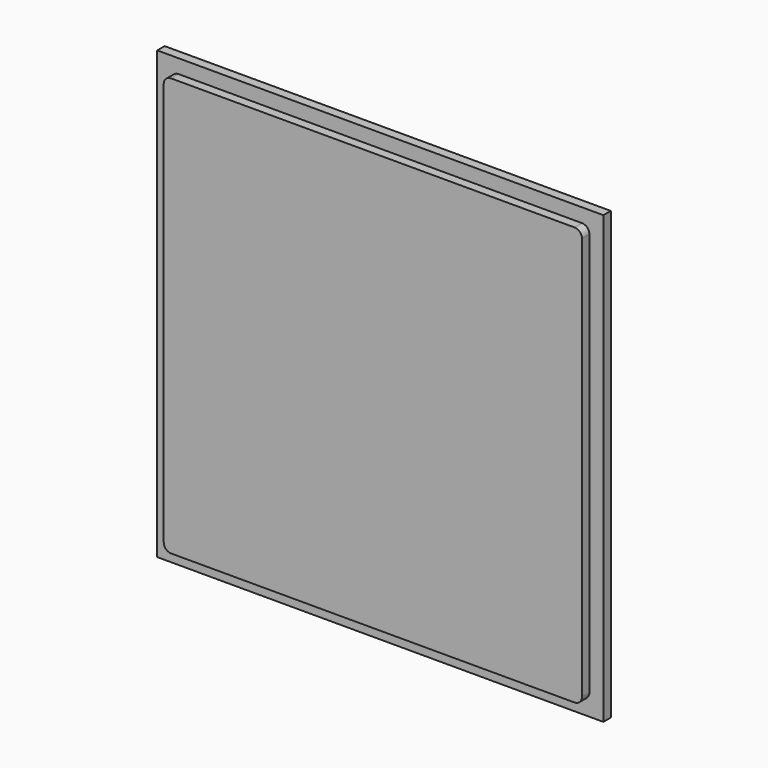
from build123d import *

# Parameters (mm, degrees)
F0_W     = 152.4
F0_H     = 152.4
F1_DEPTH = 3.175
F3_DEPTH = 3.175


with BuildPart() as f1:
    # F0 (on Front) → F1 (new body)
    with BuildSketch(Plane.XZ):
        with Locations((76.2, 76.2)):
            Rectangle(F0_W, F0_H)
    extrude(amount=F1_DEPTH)

    # F2 (on face) → F3 (join)
    with BuildSketch(Plane.XZ.offset(3.175)):
        with BuildLine():
            Line((145.0975, 147.6375), (7.3025, 147.6375))
            ThreePointArc((7.3025, 147.6375), (5.506449, 146.893551), (4.7625, 145.0975))
            Line((4.7625, 145.0975), (4.7625, 7.3025))
            ThreePointArc((4.7625, 7.3025), (5.506449, 5.506449), (7.3025, 4.7625))
            Line((7.3025, 4.7625), (145.0975, 4.7625))
            ThreePointArc((145.0975, 4.7625), (146.893551, 5.506449), (147.6375, 7.3025))
            Line((147.6375, 7.3025), (147.6375, 145.0975))
            ThreePointArc((147.6375, 145.0975), (146.893551, 146.893551), (145.0975, 147.6375))
        make_face()
    extrude(amount=F3_DEPTH)


solid = f1.part
